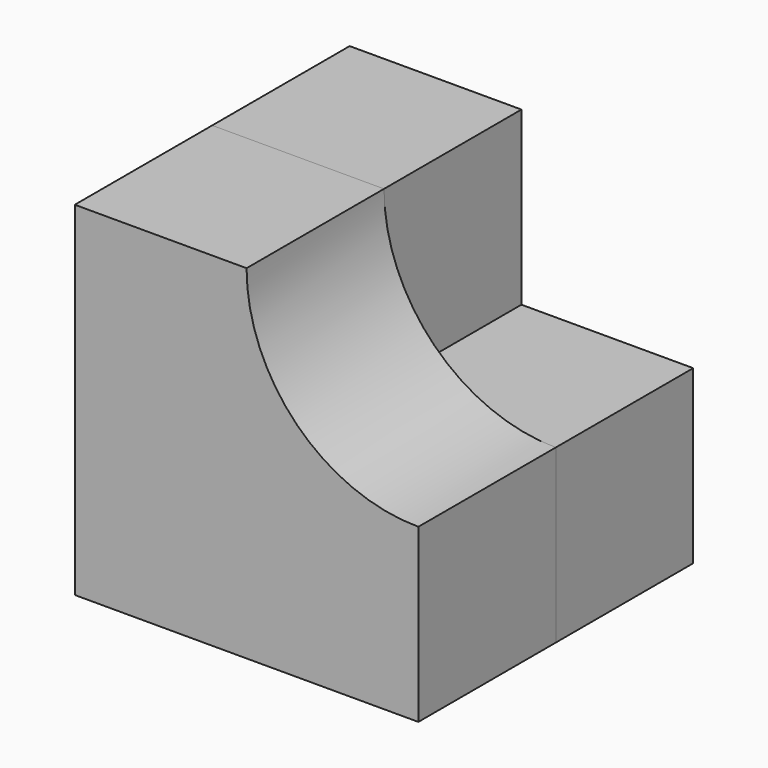
from build123d import *

# Parameters (mm, degrees)
F1_DEPTH = 25.4
F3_DEPTH = 25.4


with BuildPart() as f1:
    # F0 (on Front) → F1 (new body)
    with BuildSketch(Plane.XZ):
        Polygon((-50.8, 0), (0, 0), (0, 25.4), (-25.4, 25.4), (-25.4, 50.8), (-50.8, 50.8), align=None)
    extrude(amount=F1_DEPTH)


with BuildPart() as f3:
    # F2 (on face) → F3 (new body)
    with BuildSketch(Plane.XZ.offset(25.4)):
        Polygon((-25.4, 25.4), (-25.4, 50.8), (-50.8, 50.8), (-50.8, 0), (0, 0), (0, 25.4), align=None)
        with BuildLine():
            ThreePointArc((0, 25.4), (-17.960512, 32.839488), (-25.4, 50.8))
            Line((-25.4, 50.8), (-25.4, 25.4))
            Line((-25.4, 25.4), (0, 25.4))
        make_face()
    extrude(amount=F3_DEPTH)


solid = Compound([f1.part, f3.part])
